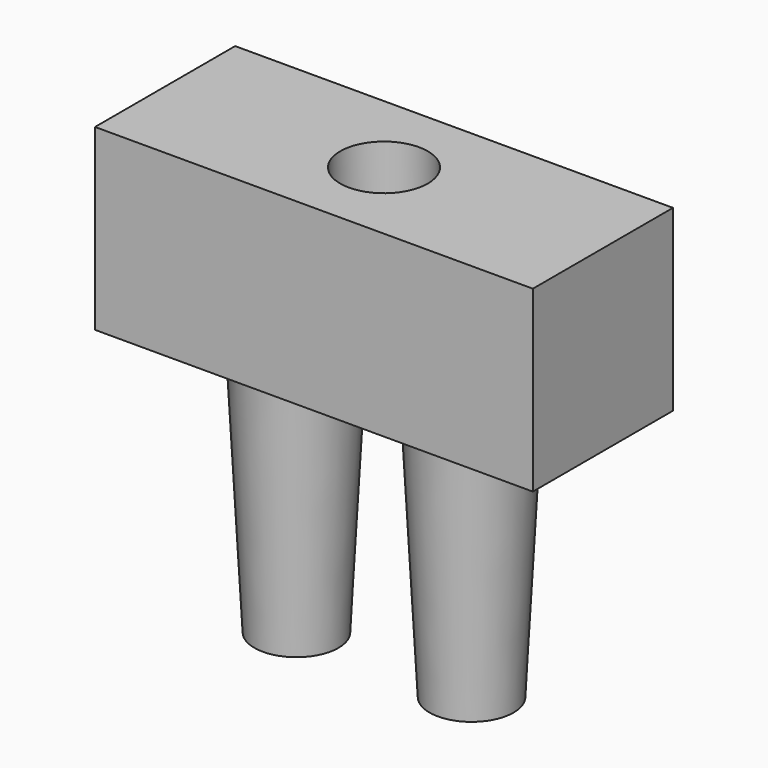
from build123d import *

# Parameters (mm, degrees)
F0_R          = 3.048
F1_DEPTH      = 19.05
F1_TAPER      = -3
F2_W          = 31.75
F2_H          = 12.7
F3_DEPTH      = 12.7
F3_DEPTH_BACK = 0.254
F4_R          = 3.175
F5_DEPTH      = 6.35


with BuildPart() as f1:
    # F0 (on Top) → F1 (new body)
    with BuildSketch(Plane.XY):
        with Locations((6.35, 0)):
            Circle(F0_R)
    extrude(amount=F1_DEPTH, taper=F1_TAPER)


with BuildPart() as f1b:
    # F0 (on Top) → F1, piece 2 (new body)
    with BuildSketch(Plane.XY):
        with Locations((-6.35, 0)):
            Circle(F0_R)
    extrude(amount=F1_DEPTH, taper=F1_TAPER)


with BuildPart() as f3:
    # F2 (on face) → F3 (new body, two sides)
    with BuildSketch(Plane.XY.offset(19.05)) as f3_sk:
        Rectangle(F2_W, F2_H)
    extrude(amount=F3_DEPTH)
    extrude(f3_sk.sketch, amount=-F3_DEPTH_BACK)

    # F4 (on face) → F5 (cut)
    with BuildSketch(Plane.XY.offset(31.75)):
        Circle(F4_R)
    extrude(amount=-F5_DEPTH, mode=Mode.SUBTRACT)


solid = Compound([f1.part, f1b.part, f3.part])
